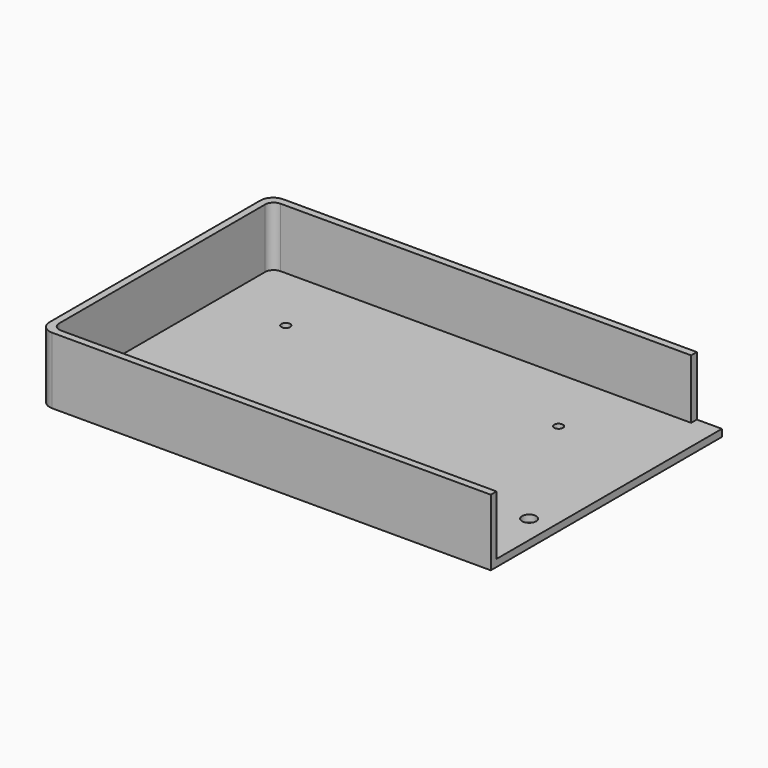
from build123d import *

# Parameters (mm, degrees)
SKETCH_W        = 252.15
SKETCH_H        = 80.7
SKETCH_R        = 1.225
SKETCH_R_2      = 1.975
PAD_DEPTH       = 18.6
SKETCH001_W     = 248.15
SKETCH001_H     = 76.7
POCKET_DEPTH    = 16.6
FILLET_R        = 2.3813
FILLET001_R     = 3.57195
SKETCH002_W     = 14
SKETCH002_H     = 2
POCKET001_DEPTH = 16.6
SKETCH003_W     = 131.259314
SKETCH003_H     = 131.259314
POCKET002_DEPTH = 20


with BuildPart() as part:
    # Sketch → Pad (new body)
    with BuildSketch(Plane.XY):
        Rectangle(SKETCH_W, SKETCH_H)
        with Locations((-104.775, 19.05)):
            Circle(SKETCH_R, mode=Mode.SUBTRACT)
        with Locations((-28.575, 19.05)):
            Circle(SKETCH_R, mode=Mode.SUBTRACT)
        with Locations((-6.3189, -19.05)):
            Circle(SKETCH_R_2, mode=Mode.SUBTRACT)
        with Locations((-104.775, -19.05)):
            Circle(SKETCH_R, mode=Mode.SUBTRACT)
        with Locations((-28.575, -19.05)):
            Circle(SKETCH_R, mode=Mode.SUBTRACT)
        with Locations((6.3189, -19.05)):
            Circle(SKETCH_R_2, mode=Mode.SUBTRACT)
        with Locations((28.575, -19.05)):
            Circle(SKETCH_R, mode=Mode.SUBTRACT)
        with Locations((28.575, 19.05)):
            Circle(SKETCH_R, mode=Mode.SUBTRACT)
        with Locations((104.775, 19.05)):
            Circle(SKETCH_R, mode=Mode.SUBTRACT)
        with Locations((104.775, -19.05)):
            Circle(SKETCH_R, mode=Mode.SUBTRACT)
    extrude(amount=PAD_DEPTH)

    # Sketch001 (on Face16 of Pad) → Pocket (cut)
    with BuildSketch(Plane.XY.offset(18.6)):
        Rectangle(SKETCH001_W, SKETCH001_H)
    extrude(amount=-POCKET_DEPTH, mode=Mode.SUBTRACT)

    # Fillet
    fillet_edges = [part.edges().sort_by_distance(p)[0] for p in [
        (-124.075, 38.35, 10.3),
        (-124.075, -38.35, 10.3),
        (124.075, 38.35, 10.3),
        (124.075, -38.35, 10.3),
    ]]
    fillet(fillet_edges, radius=FILLET_R)

    # Fillet001
    fillet001_edges = [part.edges().sort_by_distance(p)[0] for p in [
        (-126.075, 40.35, 9.3),
        (-126.075, -40.35, 9.3),
        (126.075, -40.35, 9.3),
        (126.075, 40.35, 9.3),
    ]]
    fillet(fillet001_edges, radius=FILLET001_R)

    # Sketch002 (on Face1 of Fillet001) → Pocket001 (cut)
    with BuildSketch(Plane.XY.offset(18.6)):
        with Locations((0, 39.35)):
            Rectangle(SKETCH002_W, SKETCH002_H)
    extrude(amount=-POCKET001_DEPTH, mode=Mode.SUBTRACT)

    # Sketch003 (on Face1 of Pocket001) → Pocket002 (cut)
    with BuildSketch(Plane.XY.offset(18.6)):
        with Locations((65.629657, 0)):
            Rectangle(SKETCH003_W, SKETCH003_H)
    extrude(amount=-POCKET002_DEPTH, mode=Mode.SUBTRACT)


solid = part.part
